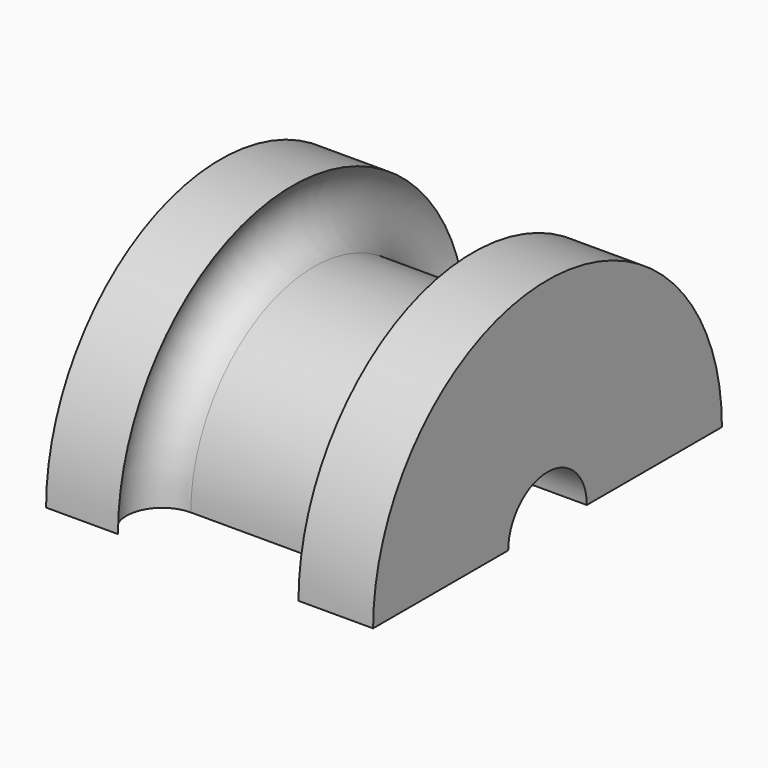
from build123d import *

# Parameters (mm, degrees)
SKETCH_W         = 30
SKETCH_H         = 15.493133
REVOLUTION_ANGLE = 180


with BuildPart() as part:
    # Sketch → Revolution (revolve)
    with BuildSketch(Plane.XY):
        with Locations((20.143988, 12.253433)):
            Rectangle(SKETCH_W, SKETCH_H)
    revolve(axis=Axis((0, 0, 0), (1, 0, 0)), revolution_arc=REVOLUTION_ANGLE)

    # Sketch001 (on Face5 of Revolution) → Groove (revolve, cut)
    with BuildSketch(Plane(origin=(0, 0, 0), x_dir=(1, 0, 0), z_dir=(0, 0, -1))):
        with BuildLine():
            ThreePointArc((13.708482, 20.66012), (10.435215, 17.386853), (13.708482, 14.113586))
            Line((13.708482, 14.113586), (26.327395, 14.113586))
            ThreePointArc((26.327395, 14.113586), (29.600662, 17.386853), (26.327395, 20.66012))
            Line((13.708482, 20.66012), (26.327395, 20.66012))
        make_face()
    revolve(axis=Axis((0, 0, 0), (1, 0, 0)), mode=Mode.SUBTRACT)


solid = part.part
